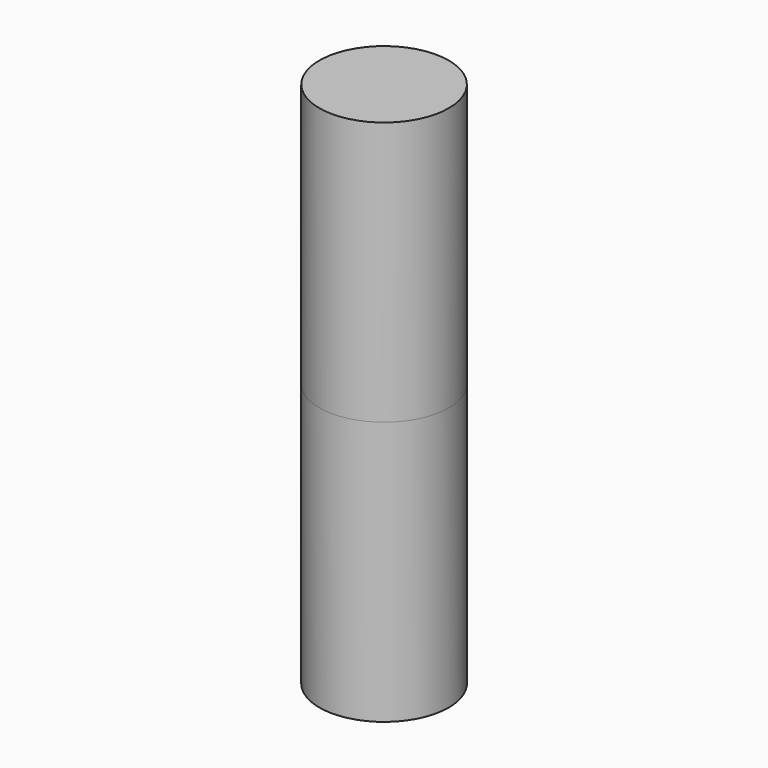
from build123d import *

# Parameters (mm, degrees)
F1_R      = 6.227794
F2_DEPTH  = 25.4
F2_FACE_R = 6.227794
F3_DEPTH  = 25.4


with BuildPart() as f2:
    # F1 (on Top) → F2 (new body)
    with BuildSketch(Plane.XY):
        Circle(F1_R)
    extrude(amount=-F2_DEPTH)


with BuildPart() as f3:
    # F2_face (on face) → F3 (new body)
    with BuildSketch(Plane(origin=(0, 0, -25.4), x_dir=(1, 0, 0), z_dir=(0, 0, -1))):
        Circle(F2_FACE_R)
    extrude(amount=F3_DEPTH)


solid = Compound([f2.part, f3.part])
